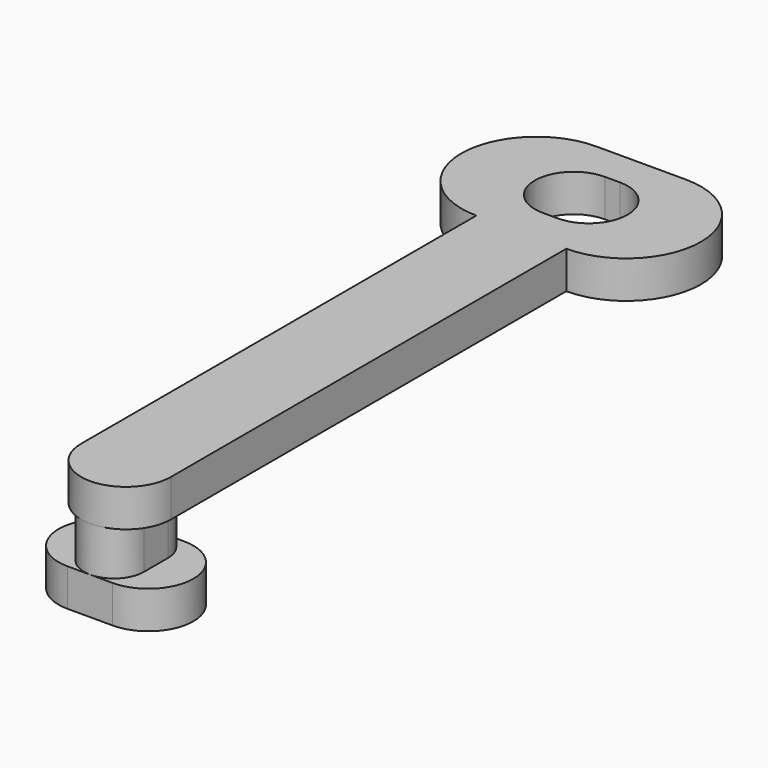
from build123d import *

# Parameters (mm, degrees)
PAD_DEPTH    = 2.5
PAD001_DEPTH = 3
PAD002_DEPTH = 2.5
PAD003_DEPTH = 2.5
POCKET_DEPTH = 2.501


with BuildPart() as part:
    # Sketch → Pad (new body)
    with BuildSketch(Plane.XY):
        with BuildLine():
            ThreePointArc((-1.5, 3), (-4.5, 0), (-1.5, -3))
            Line((-1.5, -3), (1.5, -3))
            ThreePointArc((1.5, -3), (4.5, 0), (1.5, 3))
            Line((1.5, 3), (-1.5, 3))
        make_face()
    extrude(amount=PAD_DEPTH)

    # Sketch001 (on Face6 of Pad) → Pad001 (join)
    with BuildSketch(Plane.XY.offset(2.5)):
        with BuildLine():
            ThreePointArc((2, 1), (0, 3), (-2, 1))
            Line((-2, 1), (-2, -1))
            ThreePointArc((-2, -1), (0, -3), (2, -1))
            Line((2, -1), (2, 1))
        make_face()
    extrude(amount=PAD001_DEPTH)

    # Sketch002 (on Face12 of Pad001) → Pad002 (join)
    with BuildSketch(Plane.XY.offset(5.5)):
        with BuildLine():
            ThreePointArc((3, 40), (0, 43), (-3, 40))
            Line((-3, 40), (-3, 0))
            ThreePointArc((-3, 0), (0, -3), (3, 0))
            Line((3, 0), (3, 40))
        make_face()
    extrude(amount=PAD002_DEPTH)

    # Sketch003 (on Face17 of Pad002) → Pad003 (join)
    with BuildSketch(Plane.XY.offset(8)):
        with BuildLine():
            ThreePointArc((-3, 43), (-8, 38), (-3, 33))
            Line((-3, 33), (3, 33))
            ThreePointArc((3, 33), (8, 38), (3, 43))
            Line((-3, 43), (3, 43))
        make_face()
    extrude(amount=-PAD003_DEPTH)

    # Sketch004 (on Face15 of Pad003) → Pocket (cut, through all)
    with BuildSketch(Plane(origin=(0, 0, 5.5), x_dir=(1, 0, 0), z_dir=(0, 0, -1))):
        with BuildLine():
            ThreePointArc((-0.5, -35.4), (-3.1, -38), (-0.5, -40.6))
            Line((-0.5, -40.6), (0.5, -40.6))
            ThreePointArc((0.5, -40.6), (3.1, -38), (0.5, -35.4))
            Line((0.5, -35.4), (-0.5, -35.4))
        make_face()
    extrude(amount=-POCKET_DEPTH, mode=Mode.SUBTRACT)


solid = part.part
